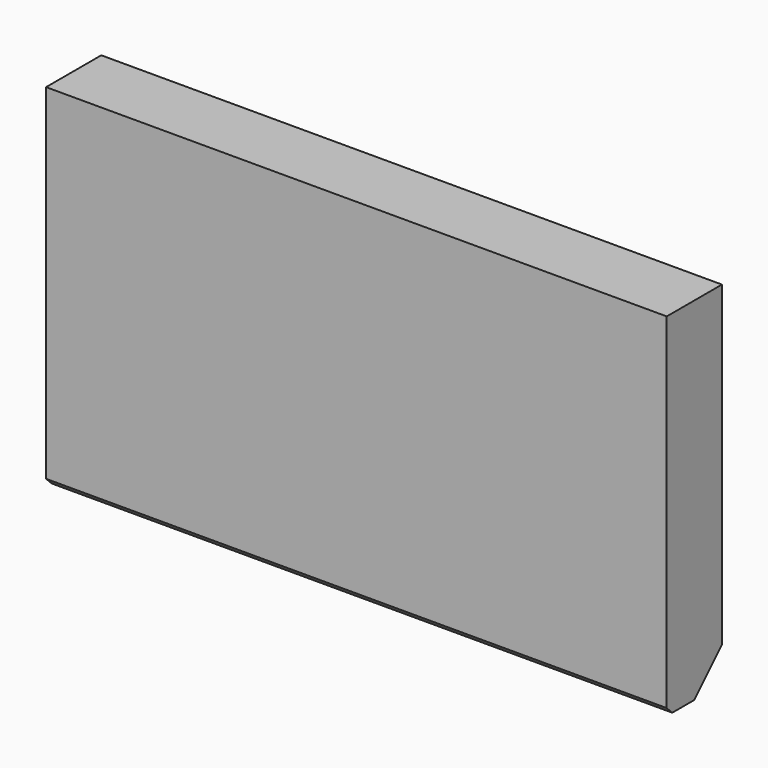
from build123d import *

# Parameters (mm, degrees)
F0_W     = 9
F0_H     = 5.1
F1_DEPTH = 0.5
F2_SIZE  = 0.5
F3_SIZE  = 0.1


with BuildPart() as f1:
    # F0 (on Front) → F1 (new body, symmetric)
    with BuildSketch(Plane.XZ):
        with Locations((4.5, 2.55)):
            Rectangle(F0_W, F0_H)
        with Locations((4.5, 2.55)):
            Rectangle(F0_W, F0_H)
    extrude(amount=F1_DEPTH, both=True)

    # F2
    f2_edges = [f1.edges().sort_by_distance(p)[0] for p in [
        (4.5, 0.5, 0),
    ]]
    chamfer(f2_edges, length=F2_SIZE)

    # F3
    f3_edges = [f1.edges().sort_by_distance(p)[0] for p in [
        (4.5, -0.5, 0),
    ]]
    chamfer(f3_edges, length=F3_SIZE)


solid = f1.part
